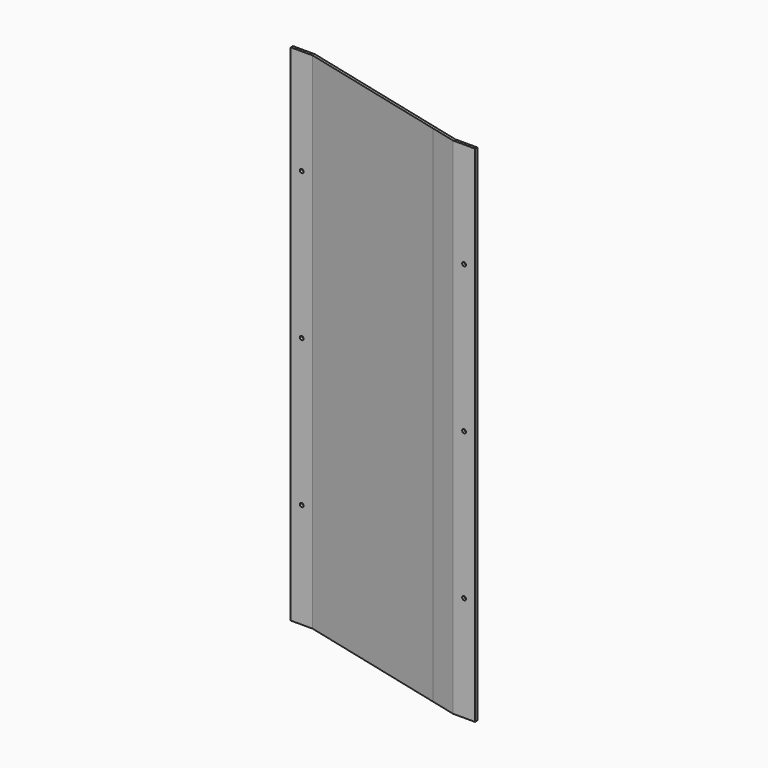
from build123d import *

# Parameters (mm, degrees)
F0_W     = 25.4
F0_H     = 3.175
F1_DEPTH = 584.2
F2_R     = 2.1844
F3_DEPTH = 25.4
F4_R     = 2.1844
F5_DEPTH = 25.4


with BuildPart() as f1:
    # F0 (on Top) → F1 (new body)
    with BuildSketch(Plane.XY):
        with Locations((12.7, -1.5875)):
            Rectangle(F0_W, F0_H)
        Polygon((207.4032145214, -45.5008036304), (25.4, 0), (25.4, -3.175), (194.7032145214, -45.5008036304), align=None)
        with Locations((241.3, -52.3875)):
            Rectangle(F0_W, F0_H)
        Polygon((228.6, -50.8), (212.4832145214, -46.7708036304), (199.7832145214, -46.7708036304), (228.6, -53.975), align=None)
        Polygon((212.4832145214, -46.7708036304), (207.4032145214, -45.5008036304), (194.7032145214, -45.5008036304), (199.7832145214, -46.7708036304), align=None)
    extrude(amount=F1_DEPTH)

    # F2 (on face) → F3 (cut)
    with BuildSketch(Plane.XZ.offset(3.175)):
        with Locations((12.7, 121.92)):
            Circle(F2_R)
        with Locations((12.7, 292.1)):
            Circle(F2_R)
        with Locations((12.7, 462.28)):
            Circle(F2_R)
    extrude(amount=-F3_DEPTH, mode=Mode.SUBTRACT)

    # F4 (on face) → F5 (cut)
    with BuildSketch(Plane.XZ.offset(53.975)):
        with Locations((241.3, 292.1)):
            Circle(F4_R)
        with Locations((241.3, 462.28)):
            Circle(F4_R)
        with Locations((241.3, 121.92)):
            Circle(F4_R)
    extrude(amount=-F5_DEPTH, mode=Mode.SUBTRACT)


solid = f1.part
